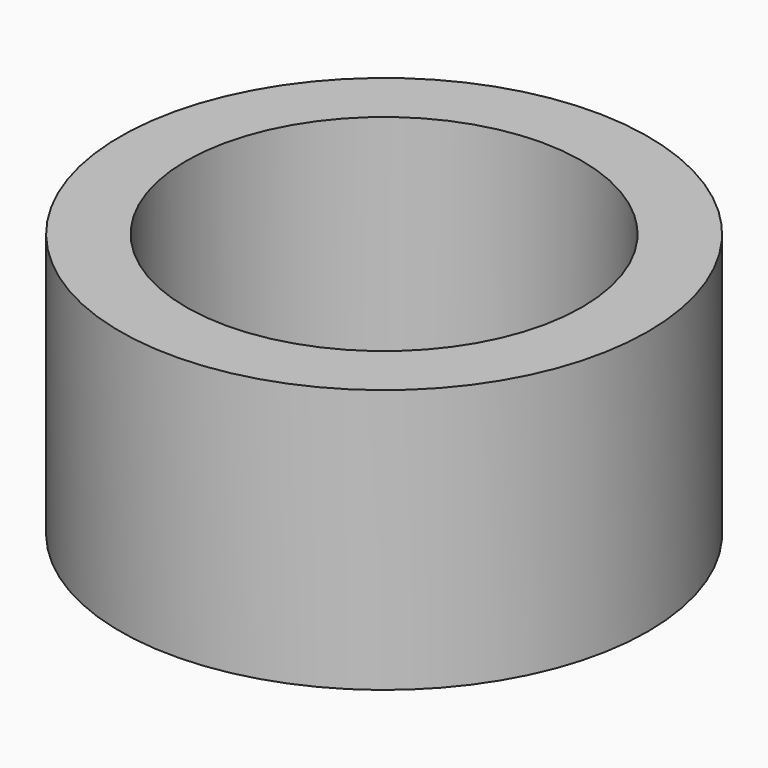
from build123d import *

# Parameters (mm, degrees)
CYLINDER009_R     = 1.5
CYLINDER009_DEPTH = 2
CYLINDER008_R     = 2
CYLINDER008_DEPTH = 2


with BuildPart() as cylinderouter004:
    # Cylinder009 → Cylinder009 (new body)
    with BuildSketch(Plane(origin=(8, -26, -23), x_dir=(1, 0, 0), z_dir=(0, 0, 1))):
        Circle(CYLINDER009_R)
    extrude(amount=CYLINDER009_DEPTH)


with BuildPart() as obj1:
    # Cylinder008 → Cylinder008 (new body)
    with BuildSketch(Plane(origin=(8, -26, -23), x_dir=(1, 0, 0), z_dir=(0, 0, 1))):
        Circle(CYLINDER008_R)
    extrude(amount=CYLINDER008_DEPTH)

    # Cut005: cut CylinderOuter004
    add(cylinderouter004.part, mode=Mode.SUBTRACT)


with BuildPart() as obj1_1:
    # Cut005 placement: moved
    add(obj1.part.moved(Location((-31, 47.5, 0))))


solid = obj1_1.part
